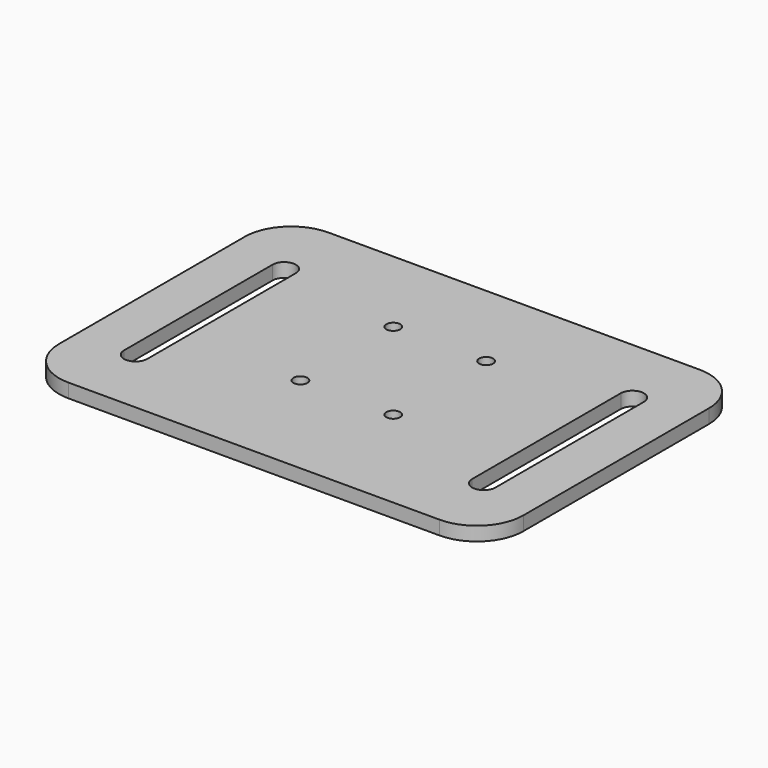
from build123d import *

# Parameters (mm, degrees)
F0_W     = 50
F0_H     = 70
F1_DEPTH = 3
F4_D     = 3
F8_DEPTH = 28.640468
F9_R     = 10


with BuildPart() as f1:
    # F0 (on Top) → F1 (new body)
    with BuildSketch(Plane.XY):
        with Locations((25, 35)):
            Rectangle(F0_W, F0_H)
    extrude(amount=F1_DEPTH)

    # F4 (through all)
    with Locations(Plane.XY.offset(3)):
        with Locations((10, 25), (10, 50)):
            Hole(F4_D / 2)

    # F7 (on face) → F8 (cut)
    with BuildSketch(Plane.XY.offset(3)):
        with BuildLine():
            ThreePointArc((35, 15), (37.5, 12.5), (40, 15))
            Line((40, 15), (40, 55))
            ThreePointArc((40, 55), (37.5, 57.5), (35, 55))
            Line((35, 55), (35, 15))
        make_face()
    extrude(amount=-F8_DEPTH, mode=Mode.SUBTRACT)

    # F9
    f9_edges = [f1.edges().sort_by_distance(p)[0] for p in [
        (50, 70, 1.5),
        (50, 0, 1.5),
    ]]
    fillet(f9_edges, radius=F9_R)

    # F10: F1 across plane


with BuildPart() as f1_1:
    add(f1.part)
    add(f1.part.mirror(Plane.YZ))


solid = f1_1.part
